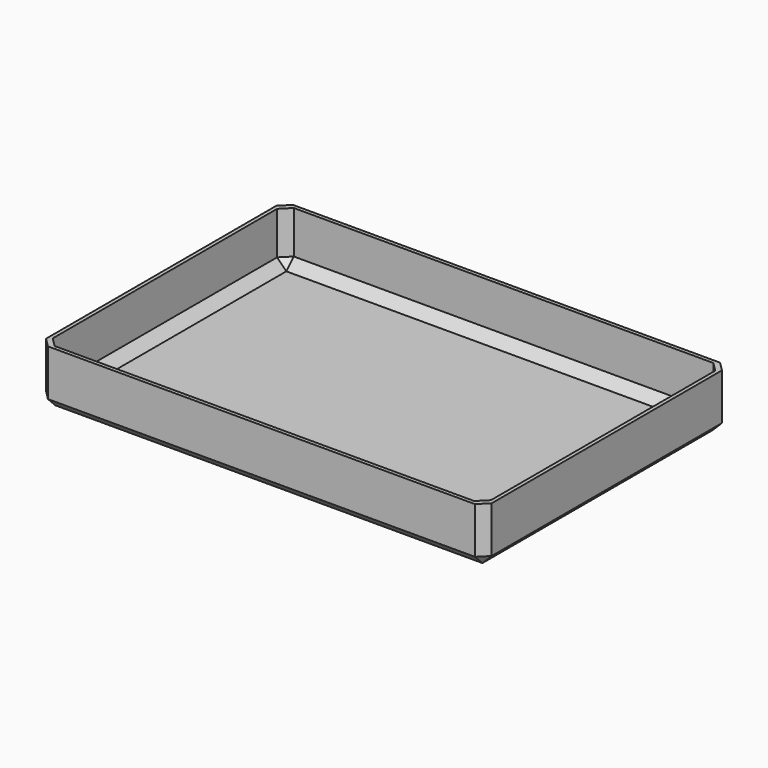
from build123d import *

# Parameters (mm, degrees)
F0_W     = 240
F0_H     = 165
F1_DEPTH = 30
F2_T     = -2
F3_SIZE  = 5


with BuildPart() as f1:
    # F0 (on Top) → F1 (new body)
    with BuildSketch(Plane.XY):
        Rectangle(F0_W, F0_H)
    extrude(amount=F1_DEPTH)

    # F2
    f2_openings = [f1.faces().sort_by_distance(p)[0] for p in [
        (0, 0, 30),
    ]]
    offset(amount=F2_T, openings=f2_openings)

    # F3
    f3_edges = [f1.edges().sort_by_distance(p)[0] for p in [
        (-118, 80.5, 16),
        (118, 80.5, 16),
        (-118, -80.5, 16),
        (118, -80.5, 16),
        (120, -82.5, 15),
        (120, 82.5, 15),
        (-120, -82.5, 15),
        (-120, 82.5, 15),
        (120, 0, 0),
        (0, 82.5, 0),
        (-120, 0, 0),
        (0, -82.5, 0),
        (118, 0, 2),
        (0, 80.5, 2),
        (-118, 0, 2),
        (0, -80.5, 2),
    ]]
    chamfer(f3_edges, length=F3_SIZE)


solid = f1.part
